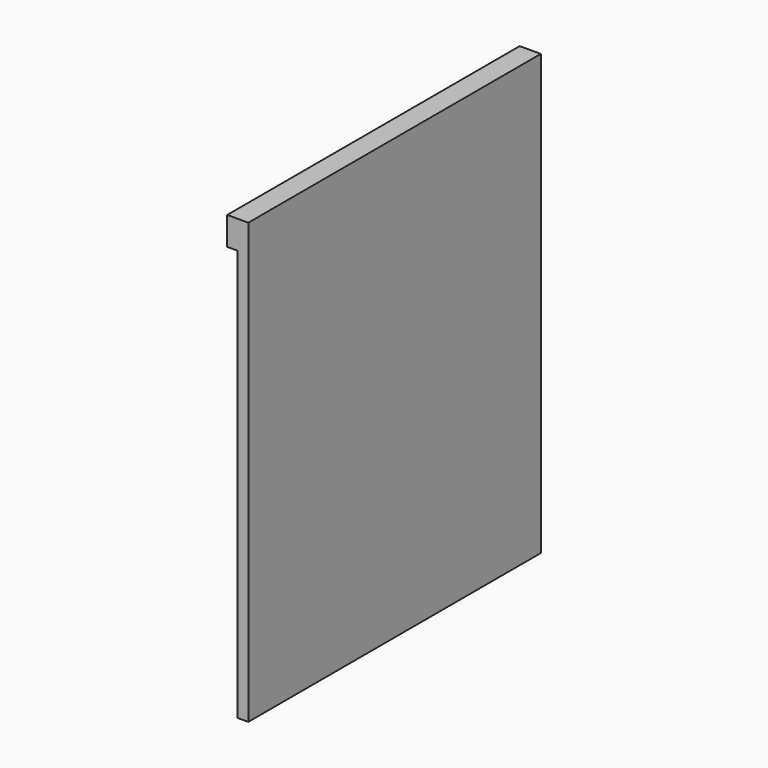
from build123d import *

# Parameters (mm, degrees)
F0_W     = 660.4
F0_H     = 50.8
F1_DEPTH = 19.05
F2_DEPTH = 19.05
F0_H_2   = 742.95
F3_DEPTH = 19.05


with BuildPart() as f1:
    # F0 (on Right) → F1 (new body)
    with BuildSketch(Plane.YZ):
        with Locations((24.521003, 353.902827)):
            Rectangle(F0_W, F0_H)
    extrude(amount=F1_DEPTH)



with BuildPart() as f2:
    # F0 (on Right) → F2 (new body)
    with BuildSketch(Plane.YZ):
        with Locations((24.521003, 353.902827)):
            Rectangle(F0_W, F0_H)
    extrude(amount=-F2_DEPTH)


with BuildPart() as f1_1:
    add(f1.part)

    add(f2.part)  # F3 merges F2
    # F0 (on Right) → F3 (join)
    with BuildSketch(Plane.YZ):
        with Locations((24.521003, 353.902827)):
            Rectangle(F0_W, F0_H)
        with Locations((24.521003, -42.972173)):
            Rectangle(F0_W, F0_H_2)
    extrude(amount=F3_DEPTH)


solid = f1_1.part
